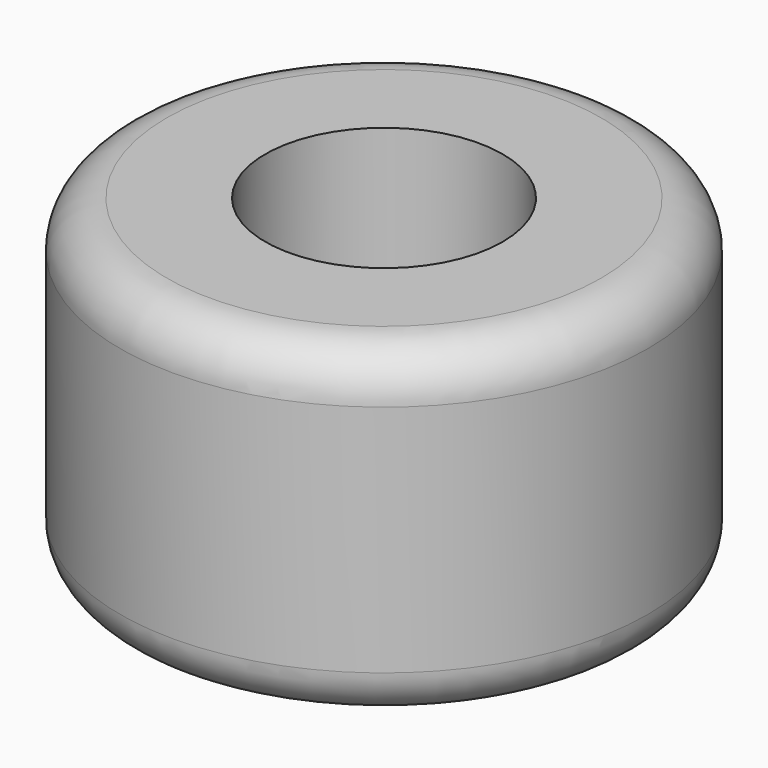
from build123d import *

# Parameters (mm, degrees)
F0_R     = 28.206886
F0_R_2   = 12.686947
F1_DEPTH = 35
F2_R     = 5


with BuildPart() as f1:
    # F0 (on Top) → F1 (new body)
    with BuildSketch(Plane.XY):
        with Locations((-6.712676, 6.047643)):
            Circle(F0_R)
        with Locations((-6.712676, 6.047643)):
            Circle(F0_R_2, mode=Mode.SUBTRACT)
    extrude(amount=F1_DEPTH)

    # F2
    f2_edges = [f1.edges().sort_by_distance(p)[0] for p in [
        (21.49421, 6.047643, 17.5),
        (-34.919562, 6.047643, 0),
        (-34.919562, 6.047643, 35),
    ]]
    fillet(f2_edges, radius=F2_R)


solid = f1.part
